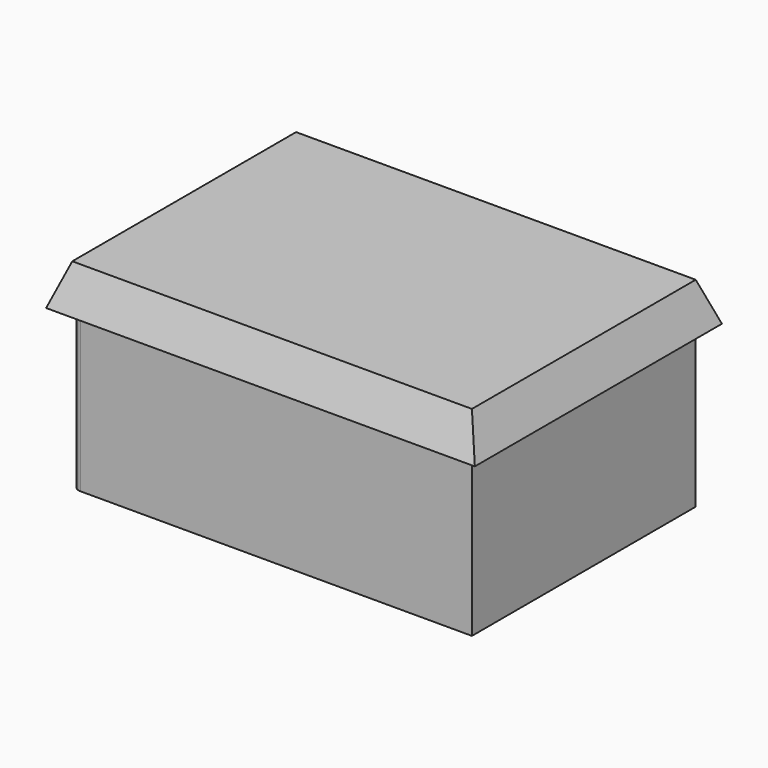
from build123d import *

# Parameters (mm, degrees)
F0_W      = 254
F0_H      = 177.8
F1_DEPTH  = 127
F1_FACE_W = 254
F1_FACE_H = 177.8
F2_DEPTH  = 25.4
F2_TAPER  = -20
F3_R      = 5.08


with BuildPart() as f1:
    # F0 (on Top) → F1 (new body)
    with BuildSketch(Plane.XY):
        Rectangle(F0_W, F0_H)
    extrude(amount=F1_DEPTH)

    # F1_face (on face) → F2 (join)
    with BuildSketch(Plane.XY.offset(127)):
        Rectangle(F1_FACE_W, F1_FACE_H)
    extrude(amount=-F2_DEPTH, taper=F2_TAPER)

    # F3
    f3_edges = [f1.edges().sort_by_distance(p)[0] for p in [
        (-127, -88.9, 50.8),
    ]]
    fillet(f3_edges, radius=F3_R)


solid = f1.part
